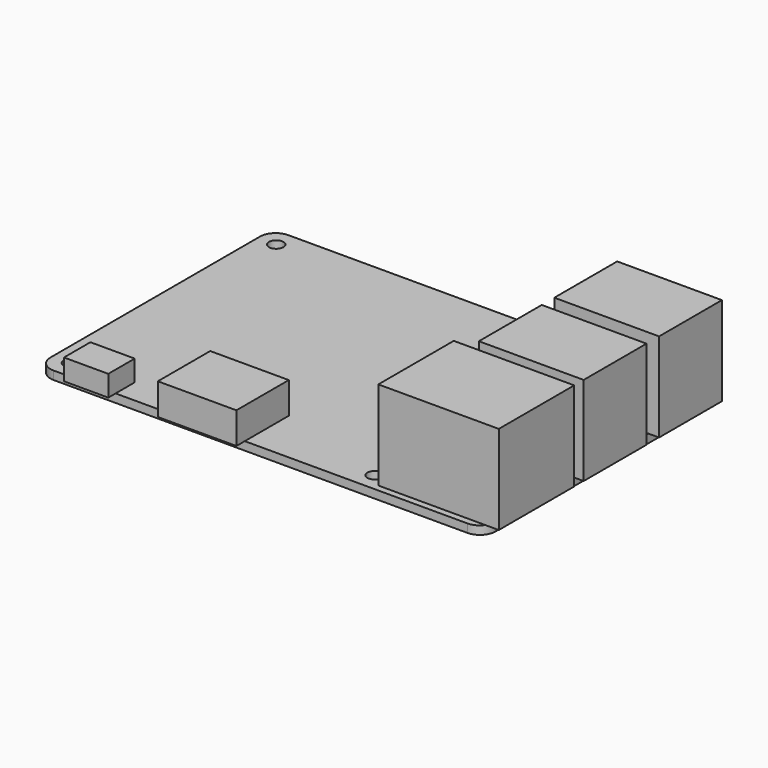
from build123d import *

# Parameters (mm, degrees)
F0_R     = 1.375
F1_DEPTH = 1.6
F2_W     = 8.457642
F2_H     = 1.740684
F2_H_2   = 4.566714
F3_DEPTH = 4
F4_W     = 20
F4_H     = 15
F4_W_2   = 23
F4_H_2   = 18
F5_DEPTH = 17
F6_W     = 15
F6_H     = 12.5
F7_DEPTH = 6


with BuildPart() as f1:
    # F0 (on Top) → F1 (new body)
    with BuildSketch(Plane.XY):
        with BuildLine():
            Line((-39.5, -28), (39.5, -28))
            ThreePointArc((39.5, -28), (41.62132, -27.12132), (42.5, -25))
            Line((42.5, -25), (42.5, 25))
            ThreePointArc((42.5, 25), (41.62132, 27.12132), (39.5, 28))
            Line((39.5, 28), (-39.5, 28))
            ThreePointArc((-39.5, 28), (-41.62132, 27.12132), (-42.5, 25))
            Line((-42.5, 25), (-42.5, -25))
            ThreePointArc((-42.5, -25), (-41.62132, -27.12132), (-39.5, -28))
        make_face()
        with Locations((-39, -24.5)):
            Circle(F0_R, mode=Mode.SUBTRACT)
        with Locations((19, -24.5)):
            Circle(F0_R, mode=Mode.SUBTRACT)
        with Locations((-39, 24.5)):
            Circle(F0_R, mode=Mode.SUBTRACT)
        with Locations((19, 24.5)):
            Circle(F0_R, mode=Mode.SUBTRACT)
    extrude(amount=F1_DEPTH)

    # F2 (on face) → F3 (join)
    with BuildSketch(Plane.XY.offset(1.6)):
        with Locations((-31.9, -28.870342)):
            Rectangle(F2_W, F2_H)
        with Locations((-31.9, -25.716643)):
            Rectangle(F2_W, F2_H_2)
    extrude(amount=F3_DEPTH)

    # F4 (on face) → F5 (join)
    with BuildSketch(Plane.XY.offset(1.6)):
        with Locations((34.5, 19)):
            Rectangle(F4_W, F4_H)
        with Locations((34.5, 1)):
            Rectangle(F4_W, F4_H)
        with Locations((33, -17.75)):
            Rectangle(F4_W_2, F4_H_2)
    extrude(amount=F5_DEPTH)

    # F6 (on face) → F7 (join)
    with BuildSketch(Plane.XY.offset(1.6)):
        with Locations((-10.5, -23.75)):
            Rectangle(F6_W, F6_H)
    extrude(amount=F7_DEPTH)


solid = f1.part
